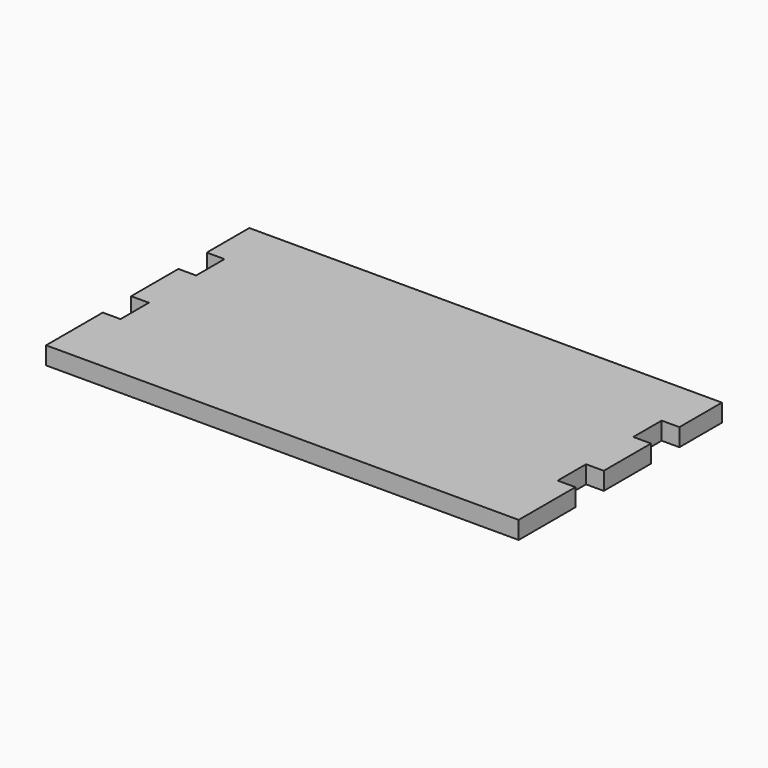
from build123d import *

# Parameters (mm, degrees)
F0_W     = 508
F0_H     = 254
F1_DEPTH = 19.05
F2_W     = 19.05
F2_H     = 38.1
F3_DEPTH = 19.05
F4_W     = 508
F4_H     = 19.05
F5_DEPTH = 19.05


with BuildPart() as f1:
    # F0 (on Top) → F1 (new body)
    with BuildSketch(Plane.XY):
        with Locations((-19.604288, 68.676595)):
            Rectangle(F0_W, F0_H)
    extrude(amount=F1_DEPTH)

    # F2 (on face) → F3 (cut)
    with BuildSketch(Plane.XY.offset(19.05)):
        with Locations((-264.079288, 119.476595)):
            Rectangle(F2_W, F2_H)
        with Locations((-264.079288, 17.876595)):
            Rectangle(F2_W, F2_H)
        with Locations((224.870712, 119.476595)):
            Rectangle(F2_W, F2_H)
        with Locations((224.870712, 17.876595)):
            Rectangle(F2_W, F2_H)
    extrude(amount=-F3_DEPTH, mode=Mode.SUBTRACT)

    # F4 (on face) → F5 (join)
    with BuildSketch(Plane.XZ.offset(58.323405)):
        with Locations((-19.604288, 9.525)):
            Rectangle(F4_W, F4_H)
    extrude(amount=F5_DEPTH)


solid = f1.part
